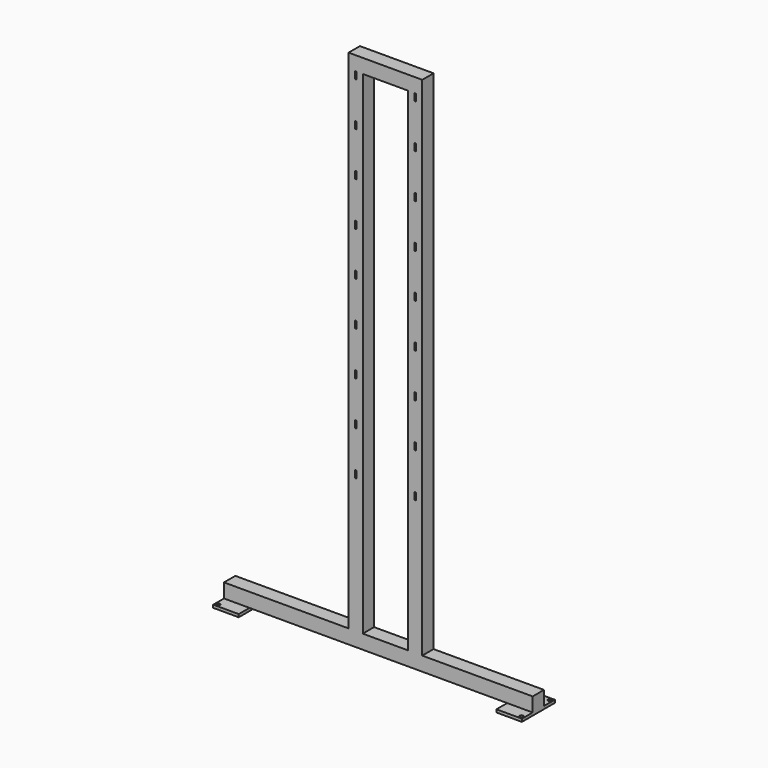
from build123d import *

# Parameters (mm, degrees)
F0_W      = 90
F0_H      = 145
F1_DEPTH  = 10
F3_D      = 13.2
F4_W      = 90
F4_H      = 50
F5_DEPTH  = 50
F6_W      = 50
F6_H      = 50
F7_DEPTH  = 1000
F8_W      = 90
F8_H      = 145
F9_DEPTH  = 10
F11_D     = 13.2
F12_W     = 50
F12_H     = 50
F13_DEPTH = 1790
F14_W     = 260
F14_H     = 50
F15_DEPTH = 50
F16_W     = 6
F16_H     = 25.2000307604
F17_DEPTH = 97.501


with BuildPart() as f1:
    # F0 (on Top) → F1 (new body)
    with BuildSketch(Plane.XY):
        Rectangle(F0_W, F0_H)
    extrude(amount=F1_DEPTH)

    # F3 (through all)
    with Locations(Plane(origin=(0, 0, 0), x_dir=(1, 0, 0), z_dir=(0, 0, -1))):
        with Locations((35, -62.5), (35, 62.5), (-35, -62.5)):
            Hole(F3_D / 2)

    # F4 (on face) → F5 (join)
    with BuildSketch(Plane.XY.offset(10)):
        Rectangle(F4_W, F4_H)
    extrude(amount=F5_DEPTH)

    # F6 (on face) → F7 (join)
    with BuildSketch(Plane(origin=(-45, 0, 0), x_dir=(0, -1, 0), z_dir=(-1, 0, 0))):
        with Locations((0, 35)):
            Rectangle(F6_W, F6_H)
    extrude(amount=F7_DEPTH)

    # F8 (on face) → F9 (join)
    with BuildSketch(Plane(origin=(0, 0, 10), x_dir=(1, 0, 0), z_dir=(0, 0, -1))):
        with Locations((-1000, 0)):
            Rectangle(F8_W, F8_H)
    extrude(amount=F9_DEPTH)

    # F11 (through all)
    with Locations(Plane.XY.offset(10)):
        with Locations((-965, 62.5), (-1035, -62.5), (-1035, 62.5)):
            Hole(F11_D / 2)

    # F12 (on face) → F13 (join)
    with BuildSketch(Plane.XY.offset(60)):
        with Locations((-370, 0)):
            Rectangle(F12_W, F12_H)
        with Locations((-580, 0)):
            Rectangle(F12_W, F12_H)
    extrude(amount=F13_DEPTH)

    # F14 (on face) → F15 (join)
    with BuildSketch(Plane.XY.offset(1850)):
        with Locations((-475, 0)):
            Rectangle(F14_W, F14_H)
    extrude(amount=-F15_DEPTH)

    # F16 (on face) → F17 (cut, through all)
    with BuildSketch(Plane.XZ.offset(25)):
        with Locations((-370, 547.6000153802)):
            Rectangle(F16_W, F16_H)
        with Locations((-370, 702.6000153802)):
            Rectangle(F16_W, F16_H)
        with Locations((-370, 857.6000153802)):
            Rectangle(F16_W, F16_H)
        with Locations((-370, 1012.6000153802)):
            Rectangle(F16_W, F16_H)
        with Locations((-370, 1167.6000153802)):
            Rectangle(F16_W, F16_H)
        with Locations((-370, 1322.6000153802)):
            Rectangle(F16_W, F16_H)
        with Locations((-370, 1477.6000153802)):
            Rectangle(F16_W, F16_H)
        with Locations((-370, 1632.6000153802)):
            Rectangle(F16_W, F16_H)
        with Locations((-370, 1787.6000153802)):
            Rectangle(F16_W, F16_H)
        with Locations((-580, 547.6000153802)):
            Rectangle(F16_W, F16_H)
        with Locations((-580, 702.6000153802)):
            Rectangle(F16_W, F16_H)
        with Locations((-580, 857.6000153802)):
            Rectangle(F16_W, F16_H)
        with Locations((-580, 1012.6000153802)):
            Rectangle(F16_W, F16_H)
        with Locations((-580, 1167.6000153802)):
            Rectangle(F16_W, F16_H)
        with Locations((-580, 1322.6000153802)):
            Rectangle(F16_W, F16_H)
        with Locations((-580, 1477.6000153802)):
            Rectangle(F16_W, F16_H)
        with Locations((-580, 1632.6000153802)):
            Rectangle(F16_W, F16_H)
        with Locations((-580, 1787.6000153802)):
            Rectangle(F16_W, F16_H)
    extrude(amount=-F17_DEPTH, mode=Mode.SUBTRACT)


solid = f1.part
